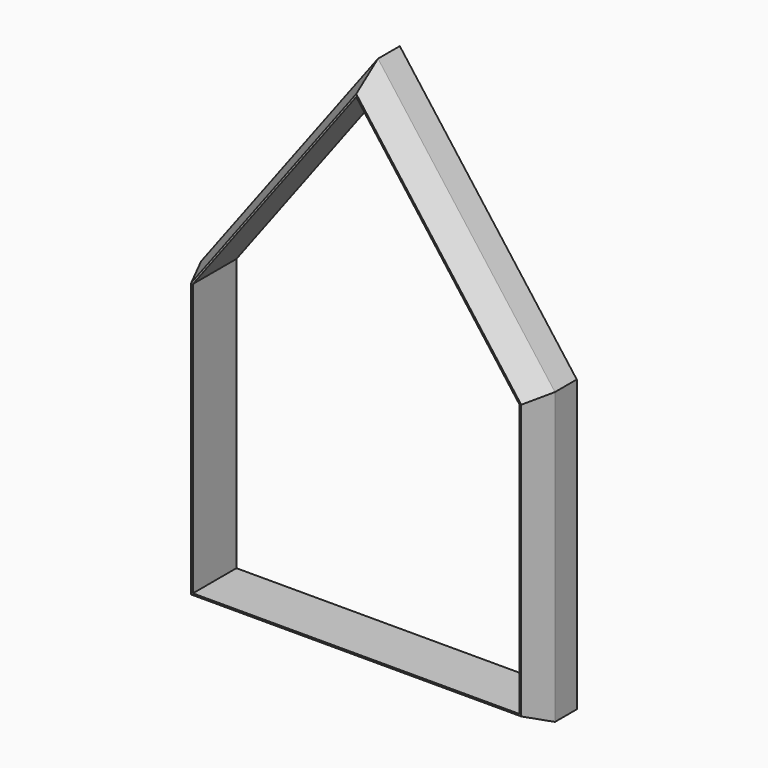
from build123d import *

# Parameters (mm, degrees)
F1_DEPTH = 12.7
F2_SIZE2 = 6.35
F2_SIZE  = 2.794


with BuildPart() as f1:
    # F0 (on Front) → F1 (new body)
    with BuildSketch(Plane.XZ):
        Polygon((79.375, -3.175), (79.375, 64.5583333333), (38.1, 119.5916666667), (-3.175, 64.5583333333), (-3.175, -3.175), align=None)
        Polygon((76.2, 0), (0, 0), (0, 63.5), (38.1, 114.3), (76.2, 63.5), align=None, mode=Mode.SUBTRACT)
    extrude(amount=F1_DEPTH)

    # F2
    f2_edges = [f1.edges().sort_by_distance(p)[0] for p in [
        (38.1, -12.7, -3.175),
        (79.375, -12.7, 30.691667),
        (58.7375, -12.7, 92.075),
        (17.4625, -12.7, 92.075),
        (-3.175, -12.7, 30.691667),
    ]]
    f2_side = f1.faces().sort_by_distance((-1.695603, -12.7, 30.691667))[0]
    chamfer(f2_edges, length=F2_SIZE, length2=F2_SIZE2, reference=f2_side)


solid = f1.part
